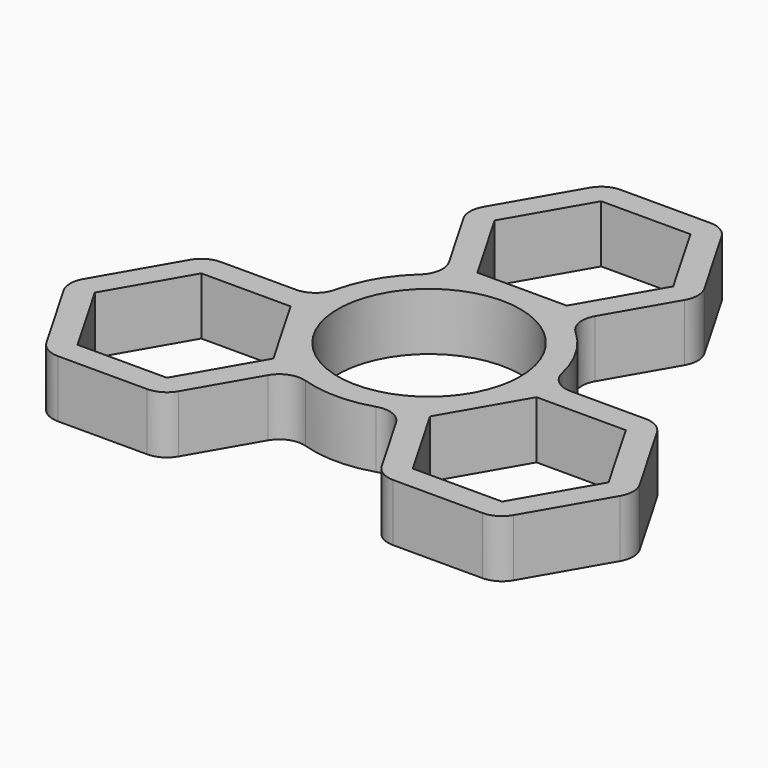
from build123d import *

# Parameters (mm, degrees)
F0_R     = 11.125
F1_DEPTH = 7


with BuildPart() as f1:
    # F0 (on Top) → F1 (new body)
    with BuildSketch(Plane.XY):
        with BuildLine():
            Line((5.444413, 36.03), (-5.444413, 36.03))
            ThreePointArc((-5.444413, 36.03), (-6.944413, 35.628076), (-8.042489, 34.53))
            Line((-8.042489, 34.53), (-13.486902, 25.1))
            ThreePointArc((-13.486902, 25.1), (-13.888826, 23.6), (-13.486902, 22.1))
            Line((-13.486902, 22.1), (-8.913522, 14.178673))
            ThreePointArc((-8.913522, 14.178673), (-8.547565, 12.215521), (-9.494968, 10.457591))
            ThreePointArc((-9.494968, 10.457591), (-12.232609, 7.0625), (-13.804023, 2.994088))
            ThreePointArc((-13.804023, 2.994088), (-14.852734, 1.294648), (-16.735851, 0.63))
            Line((-16.735851, 0.63), (-25.882613, 0.63))
            ThreePointArc((-25.882613, 0.63), (-27.382613, 0.228076), (-28.480689, -0.87))
            Line((-28.480689, -0.87), (-33.925102, -10.3))
            ThreePointArc((-33.925102, -10.3), (-34.327026, -11.8), (-33.925102, -13.3))
            Line((-33.925102, -13.3), (-28.480689, -22.73))
            ThreePointArc((-28.480689, -22.73), (-27.382613, -23.828076), (-25.882613, -24.23))
            Line((-25.882613, -24.23), (-14.993786, -24.23))
            ThreePointArc((-14.993786, -24.23), (-13.493786, -23.828076), (-12.39571, -22.73))
            Line((-12.39571, -22.73), (-7.82233, -14.808673))
            ThreePointArc((-7.82233, -14.808673), (-6.305169, -13.510169), (-4.309056, -13.451679))
            ThreePointArc((-4.309056, -13.451679), (0, -14.125), (4.309056, -13.451679))
            ThreePointArc((4.309056, -13.451679), (6.305169, -13.510169), (7.82233, -14.808673))
            Line((7.82233, -14.808673), (12.39571, -22.73))
            ThreePointArc((12.39571, -22.73), (13.493786, -23.828076), (14.993786, -24.23))
            Line((14.993786, -24.23), (25.882613, -24.23))
            ThreePointArc((25.882613, -24.23), (27.382613, -23.828076), (28.480689, -22.73))
            Line((28.480689, -22.73), (33.925102, -13.3))
            ThreePointArc((33.925102, -13.3), (34.327026, -11.8), (33.925102, -10.3))
            Line((33.925102, -10.3), (28.480689, -0.87))
            ThreePointArc((28.480689, -0.87), (27.382613, 0.228076), (25.882613, 0.63))
            Line((25.882613, 0.63), (16.735851, 0.63))
            ThreePointArc((16.735851, 0.63), (14.852734, 1.294648), (13.804023, 2.994088))
            ThreePointArc((13.804023, 2.994088), (12.232609, 7.0625), (9.494968, 10.457591))
            ThreePointArc((9.494968, 10.457591), (8.547565, 12.215521), (8.913522, 14.178673))
            Line((8.913522, 14.178673), (13.486902, 22.1))
            ThreePointArc((13.486902, 22.1), (13.888826, 23.6), (13.486902, 25.1))
            Line((13.486902, 25.1), (8.042489, 34.53))
            ThreePointArc((8.042489, 34.53), (6.944413, 35.628076), (5.444413, 36.03))
        make_face()
        Polygon((-25.882613, -21.23), (-31.327026, -11.8), (-25.882613, -2.37), (-14.993786, -2.37), (-9.549373, -11.8), (-14.993786, -21.23), align=None, mode=Mode.SUBTRACT)
        Polygon((31.327026, -11.8), (25.882613, -21.23), (14.993786, -21.23), (9.549373, -11.8), (14.993786, -2.37), (25.882613, -2.37), align=None, mode=Mode.SUBTRACT)
        Circle(F0_R, mode=Mode.SUBTRACT)
        Polygon((-10.888826, 23.6), (-5.444413, 33.03), (5.444413, 33.03), (10.888826, 23.6), (5.444413, 14.17), (-5.444413, 14.17), align=None, mode=Mode.SUBTRACT)
    extrude(amount=F1_DEPTH)


solid = f1.part
